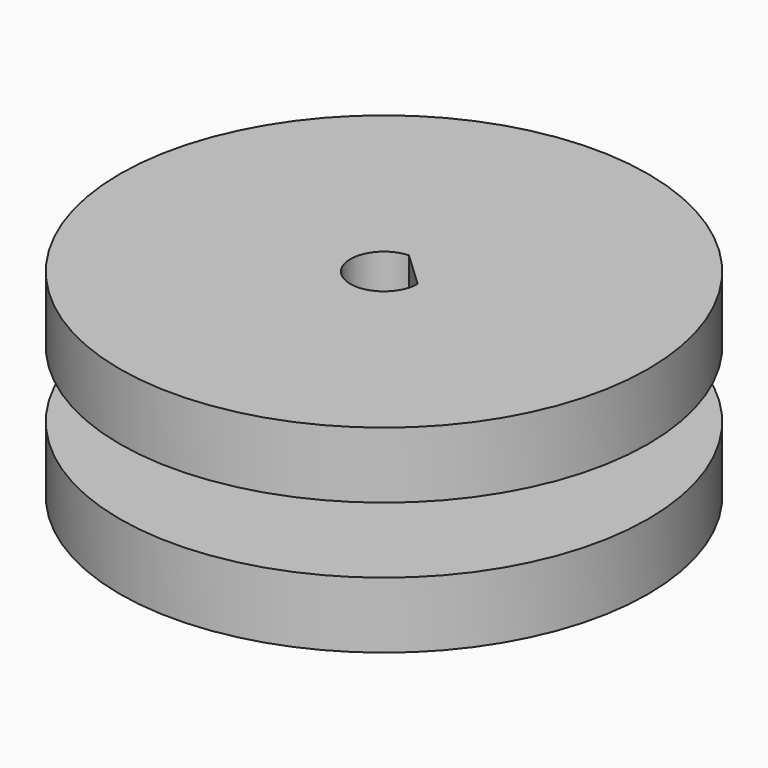
from build123d import *

# Parameters (mm, degrees)
F0_R     = 20
F1_DEPTH = 5
F2_R     = 5
F3_DEPTH = 5
F4_R     = 20
F5_DEPTH = 5
F7_DEPTH = 25


with BuildPart() as f1:
    # F0 (on Top) → F1 (new body)
    with BuildSketch(Plane.XY):
        Circle(F0_R)
    extrude(amount=F1_DEPTH)

    # F2 (on face) → F3 (join)
    with BuildSketch(Plane.XY.offset(5)):
        Circle(F2_R)
    extrude(amount=F3_DEPTH)

    # F4 (on face) → F5 (join)
    with BuildSketch(Plane.XY.offset(10)):
        Circle(F4_R)
    extrude(amount=F5_DEPTH)

    # F6 (on face) → F7 (cut)
    with BuildSketch(Plane.XY.offset(15)):
        with BuildLine():
            ThreePointArc((-0.1480392157, 2.5456991948), (-1.75, -1.8547236991), (2.55, 0))
            Line((2.55, 0), (-0.1480392157, 2.5456991948))
        make_face()
    extrude(amount=-F7_DEPTH, mode=Mode.SUBTRACT)


solid = f1.part
